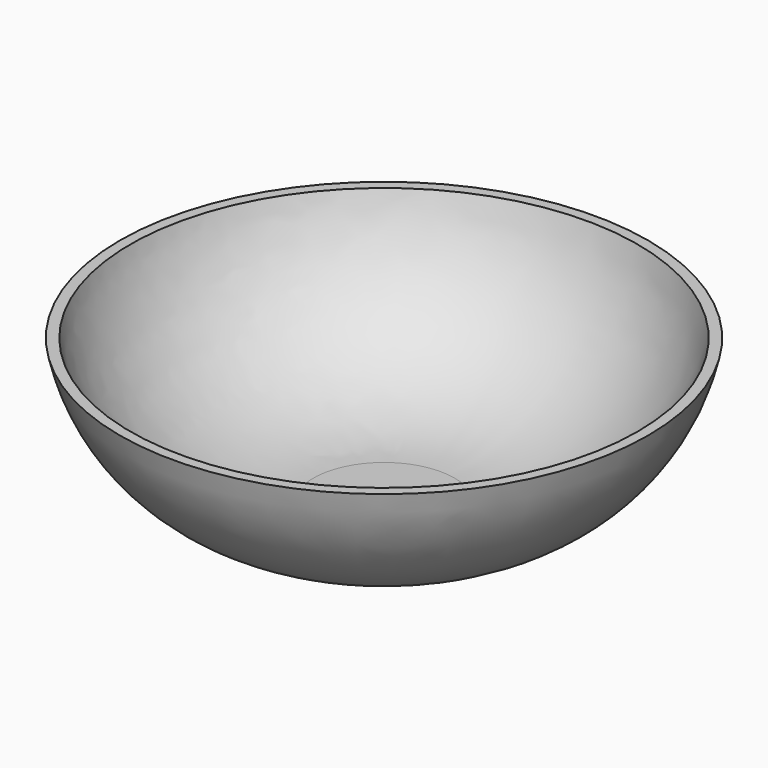
from build123d import *


with BuildPart() as f1:
    # F0 (on Front) → F1 (revolve)
    with BuildSketch(Plane.XZ):
        with BuildLine():
            Line((127, 7.656409), (121.935222, 7.656409))
            ThreePointArc((121.935222, 7.656409), (90.305788, -42.958075), (33.98674, -62.716919))
            Line((33.98674, -62.716919), (0, -62.716919))
            Line((0, -62.716919), (0, -67.664877))
            Line((0, -67.664877), (33.98674, -67.664877))
            ThreePointArc((33.98674, -67.664877), (93.82979, -46.473203), (127, 7.656409))
        make_face()
    revolve(axis=Axis((0, 0, -26.835612), (0, 0, -1)))


solid = f1.part
